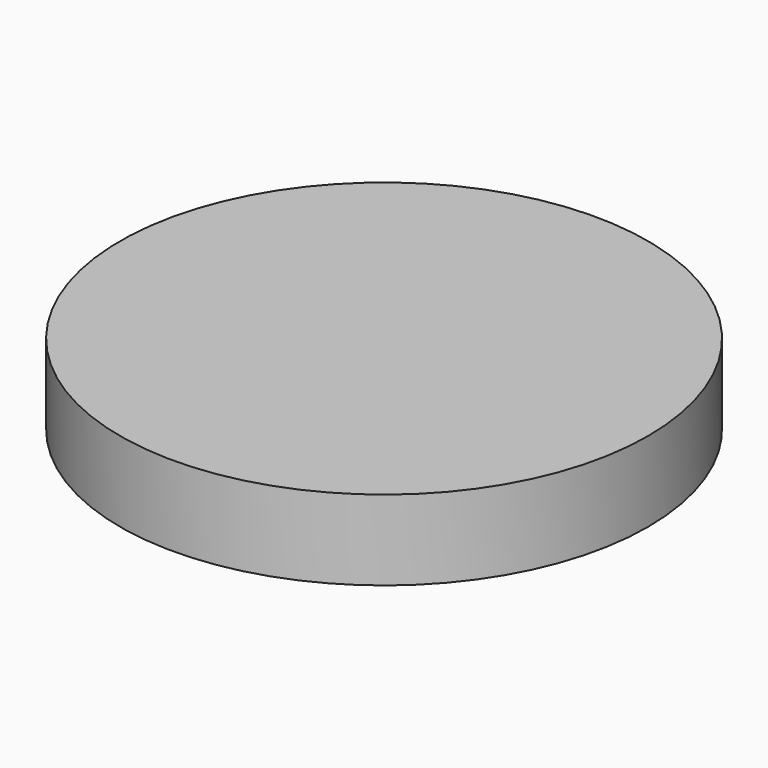
from build123d import *

# Parameters (mm, degrees)
F0_R     = 33
F1_DEPTH = 10
F2_R     = 31.5
F3_DEPTH = 8
F5_DEPTH = 1
F6_R     = 1


with BuildPart() as f1:
    # F0 (on Top) → F1 (new body)
    with BuildSketch(Plane.XY):
        Circle(F0_R)
    extrude(amount=F1_DEPTH)

    # F2 (on face) → F3 (cut)
    with BuildSketch(Plane(origin=(0, 0, 0), x_dir=(1, 0, 0), z_dir=(0, 0, -1))):
        Circle(F2_R)
    extrude(amount=-F3_DEPTH, mode=Mode.SUBTRACT)

    # F4 (on face) → F5 (join)
    with BuildSketch(Plane(origin=(0, 0, 0), x_dir=(1, 0, 0), z_dir=(0, 0, -1))):
        with BuildLine():
            Line((16.1904761905, 25.2560582975), (17, 26.5188612124))
            ThreePointArc((17, 26.5188612124), (0, 31.5), (-17, 26.5188612124))
            Line((-17, 26.5188612124), (-16.1904761905, 25.2560582975))
            ThreePointArc((-16.1904761905, 25.2560582975), (0, 30), (16.1904761905, 25.2560582975))
        make_face()
        with BuildLine():
            Line((-29.9676261803, 1.3933345316), (-31.4660074893, 1.4630012582))
            ThreePointArc((-31.4660074893, 1.4630012582), (-27.2798002192, -15.75), (-14.4660074893, -27.9818624705))
            Line((-14.4660074893, -27.9818624705), (-13.7771499898, -26.6493928291))
            ThreePointArc((-13.7771499898, -26.6493928291), (-25.9807621135, -15), (-29.9676261803, 1.3933345316))
        make_face()
        with BuildLine():
            Line((13.7771499898, -26.6493928291), (14.4660074893, -27.9818624705))
            ThreePointArc((14.4660074893, -27.9818624705), (27.2798002192, -15.75), (31.4660074893, 1.4630012582))
            Line((31.4660074893, 1.4630012582), (29.9676261803, 1.3933345316))
            ThreePointArc((29.9676261803, 1.3933345316), (25.9807621135, -15), (13.7771499898, -26.6493928291))
        make_face()
    extrude(amount=-F5_DEPTH)

    # F6
    f6_edges = [f1.edges().sort_by_distance(p)[0] for p in [
        (29.967626, -1.393335, 0.5),
        (13.77715, 26.649393, 0.5),
        (16.190476, -25.256058, 0.5),
        (-13.77715, 26.649393, 0.5),
        (-29.967626, -1.393335, 0.5),
        (-16.190476, -25.256058, 0.5),
    ]]
    fillet(f6_edges, radius=F6_R)


solid = f1.part
